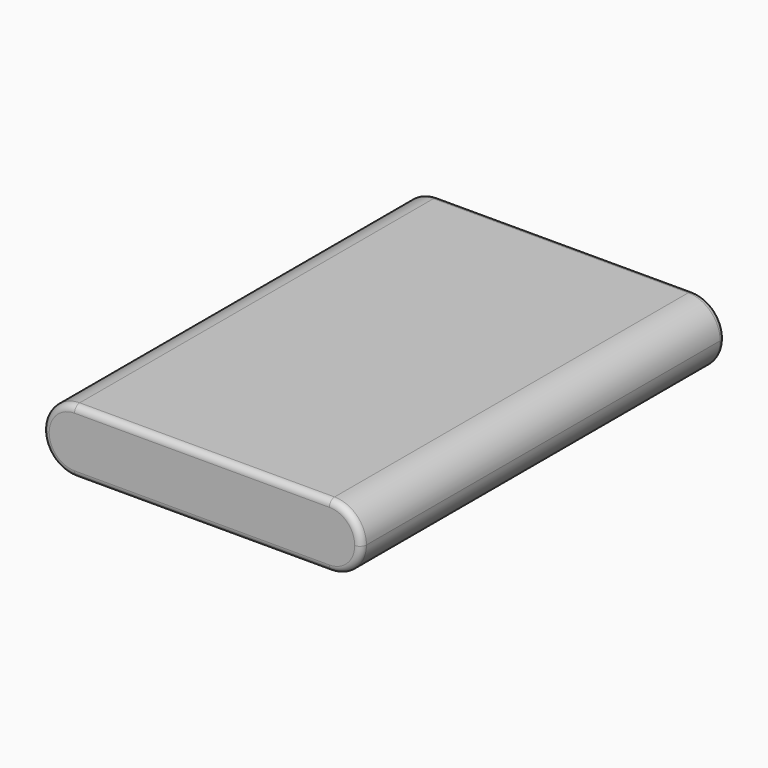
from build123d import *

# Parameters (mm, degrees)
F1_DEPTH = 70
F2_R     = 1


with BuildPart() as f1:
    # F0 (on Front) → F1 (new body)
    with BuildSketch(Plane.XZ):
        with BuildLine():
            Line((-12.123742, 20.588074), (-51.323742, 20.588074))
            ThreePointArc((-51.323742, 20.588074), (-54.788565, 19.152897), (-56.223742, 15.688074))
            ThreePointArc((-56.223742, 15.688074), (-54.788565, 12.22325), (-51.323742, 10.788074))
            Line((-51.323742, 10.788074), (-12.123742, 10.788074))
            ThreePointArc((-12.123742, 10.788074), (-8.658918, 12.22325), (-7.223742, 15.688074))
            ThreePointArc((-7.223742, 15.688074), (-8.658918, 19.152897), (-12.123742, 20.588074))
        make_face()
    extrude(amount=F1_DEPTH)

    # F2
    f2_edges = [f1.edges().sort_by_distance(p)[0] for p in [
        (-31.723742, -70, 20.588074),
        (-56.223742, -70, 15.688074),
        (-31.723742, -70, 10.788074),
        (-7.223742, -70, 15.688074),
        (-56.223742, 0, 15.688074),
        (-31.723742, 0, 20.588074),
        (-31.723742, 0, 10.788074),
        (-7.223742, 0, 15.688074),
    ]]
    fillet(f2_edges, radius=F2_R)


solid = f1.part
